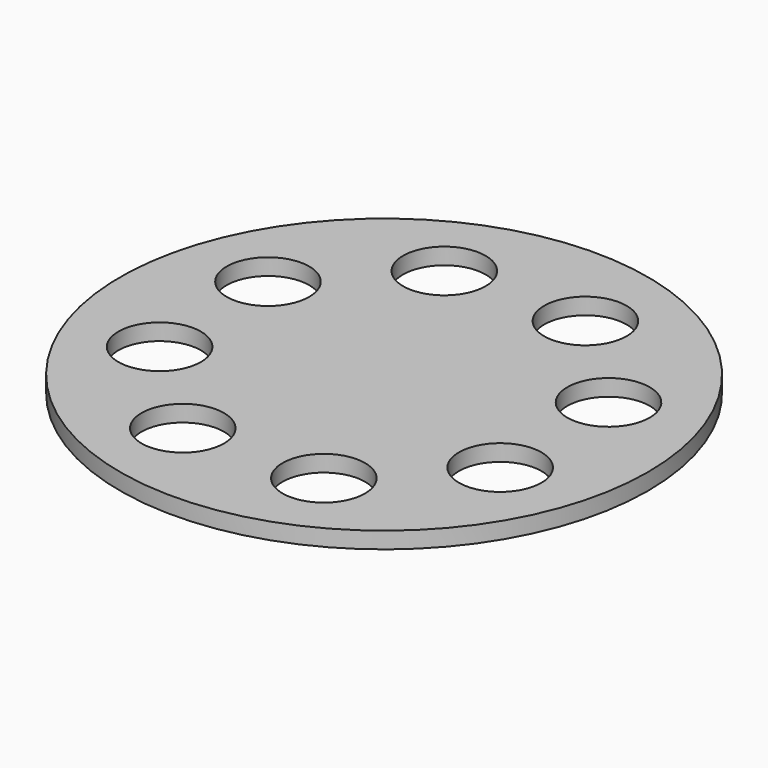
from build123d import *

# Parameters (mm, degrees)
F0_R     = 203.2
F0_R_2   = 31.75
F1_DEPTH = 12.7


with BuildPart() as f1:
    # F0 (on Top) → F1 (new body)
    with BuildSketch(Plane.XY):
        Circle(F0_R)
        with Locations((-50.890439, -130.100935)):
            Circle(F0_R_2, mode=Mode.SUBTRACT)
        with Locations((-127.980228, -56.010279)):
            Circle(F0_R_2, mode=Mode.SUBTRACT)
        with Locations((56.010279, -127.980228)):
            Circle(F0_R_2, mode=Mode.SUBTRACT)
        with Locations((130.100935, -50.890439)):
            Circle(F0_R_2, mode=Mode.SUBTRACT)
        with Locations((-130.100935, 50.890439)):
            Circle(F0_R_2, mode=Mode.SUBTRACT)
        with Locations((-56.010279, 127.980228)):
            Circle(F0_R_2, mode=Mode.SUBTRACT)
        with Locations((127.980228, 56.010279)):
            Circle(F0_R_2, mode=Mode.SUBTRACT)
        with Locations((50.890439, 130.100935)):
            Circle(F0_R_2, mode=Mode.SUBTRACT)
    extrude(amount=F1_DEPTH)


solid = f1.part
